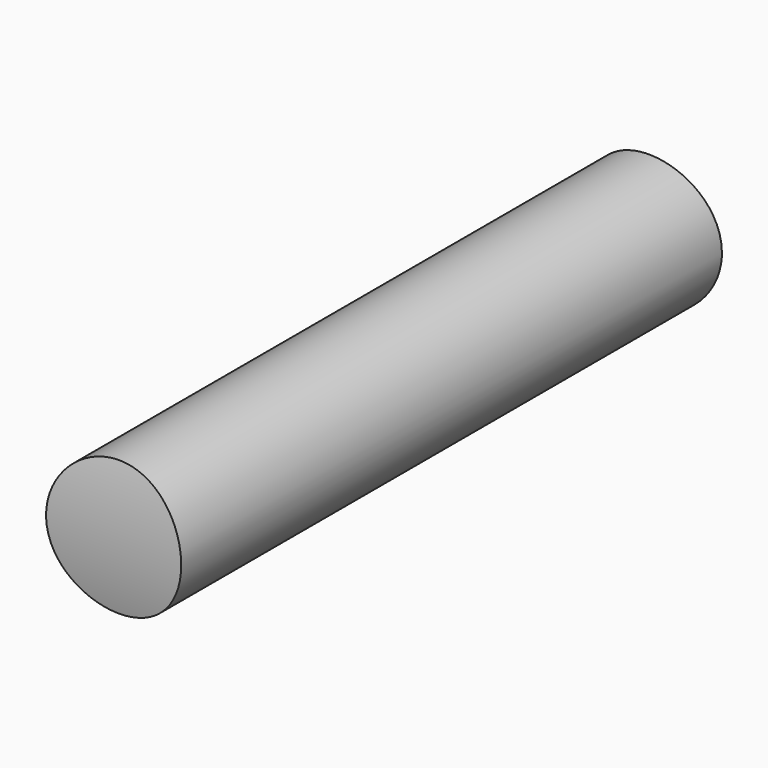
from build123d import *

# Parameters (mm, degrees)
F0_R     = 3.175
F1_DEPTH = 31.75
F3_DEPTH = 12.7


with BuildPart() as f1:
    # F0 (on Front) → F1 (new body)
    with BuildSketch(Plane.XZ):
        Circle(F0_R)
    extrude(amount=F1_DEPTH)

    # F2 (on Right) → F3 (cut, symmetric)
    with BuildSketch(Plane.YZ):
        with BuildLine():
            ThreePointArc((-31.75, 0), (-15.875, 15.875), (0, 0))
            Line((0, 0), (0, 17.315913))
            Line((0, 17.315913), (-31.75, 17.315913))
            Line((-31.75, 17.315913), (-31.75, 0))
        make_face()
        with BuildLine():
            Line((0, -17.315913), (0, 0))
            ThreePointArc((0, 0), (-15.875, -15.875), (-31.75, 0))
            Line((-31.75, 0), (-31.75, -17.315913))
            Line((-31.75, -17.315913), (0, -17.315913))
        make_face()
    extrude(amount=F3_DEPTH, both=True, mode=Mode.SUBTRACT)


solid = f1.part
